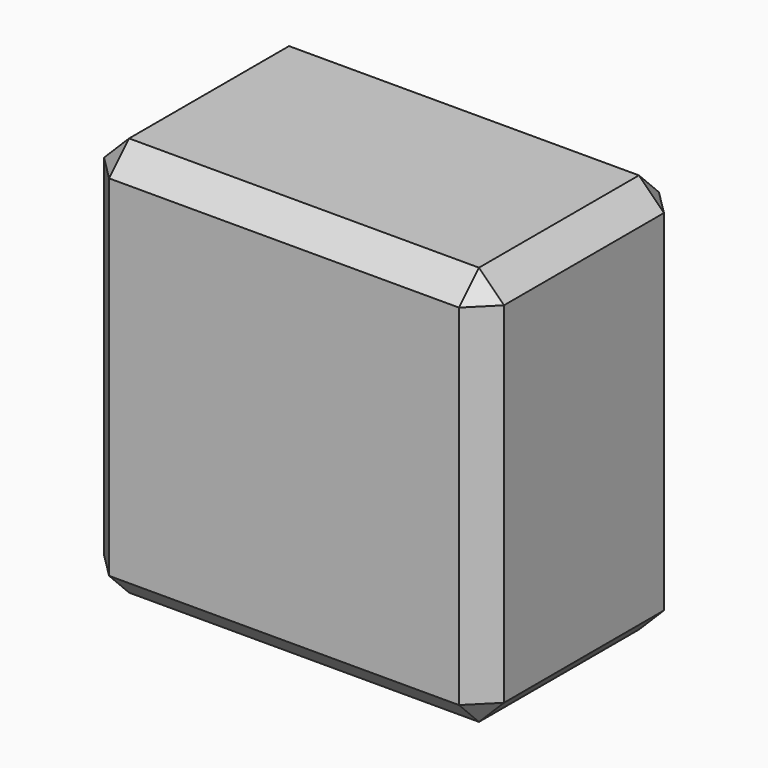
from build123d import *

# Parameters (mm, degrees)
F0_W     = 80
F0_H     = 50
F1_DEPTH = 80
F2_SIZE  = 5
F3_T     = -2.5


with BuildPart() as f1:
    # F0 (on Top) → F1 (new body)
    with BuildSketch(Plane.XY):
        with Locations((-8.405441, -0.035937)):
            Rectangle(F0_W, F0_H)
    extrude(amount=F1_DEPTH)

    # F2
    f2_edges = [f1.edges().sort_by_distance(p)[0] for p in [
        (31.594559, -0.035937, 80),
        (31.594559, -25.035937, 40),
        (31.594559, -0.035937, 0),
        (31.594559, 24.964063, 40),
        (-48.405441, -0.035937, 80),
        (-48.405441, 24.964063, 40),
        (-8.405441, 24.964063, 0),
        (-8.405441, 24.964063, 80),
        (-8.405441, -25.035937, 80),
        (-48.405441, -0.035937, 0),
        (-8.405441, -25.035937, 0),
        (-48.405441, -25.035937, 40),
    ]]
    chamfer(f2_edges, length=F2_SIZE)

    # F3
    f3_openings = [f1.faces().sort_by_distance(p)[0] for p in [
        (-8.405441, 24.964063, 40),
    ]]
    offset(amount=F3_T, openings=f3_openings)


solid = f1.part
